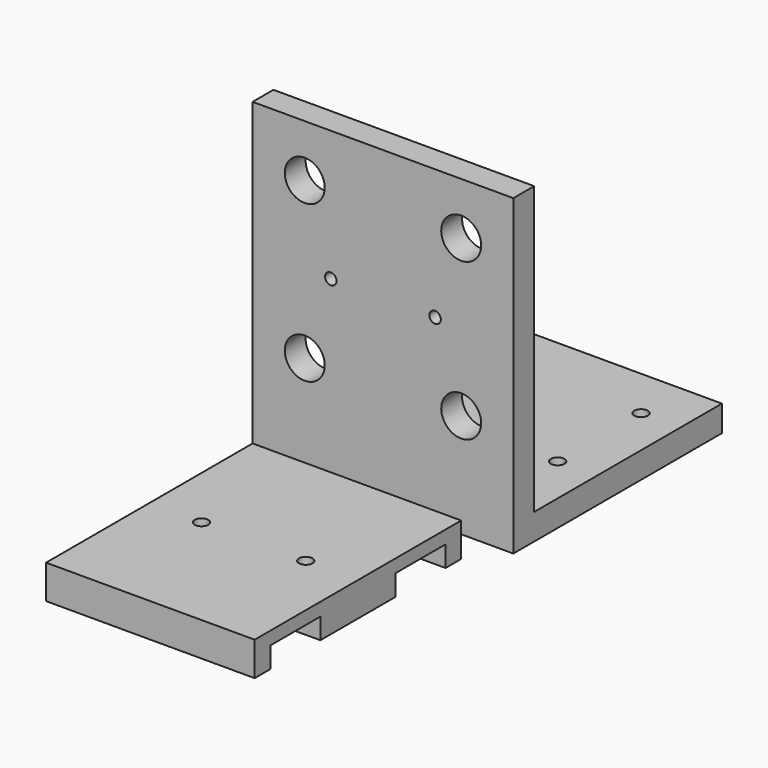
from build123d import *

# Parameters (mm, degrees)
F1_DEPTH  = 63.5
F3_D      = 19.446875
F5_DEPTH  = 50.8
F7_D      = 6.604
F9_D      = 5.588
F11_D     = 6.604
F12_W     = 101.6
F12_H     = 9.525
F13_DEPTH = 16.51


with BuildPart() as f1:
    # F0 (on Right) → F1 (new body, symmetric)
    with BuildSketch(Plane.YZ):
        Polygon((0, 152.4), (0, 0), (127, 0), (127, 12.7), (12.7, 12.7), (12.7, 152.4), align=None)
    extrude(amount=F1_DEPTH, both=True)

    # F3 (through all)
    with Locations(Plane.XZ):
        with Locations((-38.1, 127), (38.1, 127), (38.1, 50.8), (-38.1, 50.8)):
            Hole(F3_D / 2)

    # F9 (through all)
    with Locations(Plane.XZ):
        with Locations((-25.4, 88.9), (25.4, 88.9)):
            Hole(F9_D / 2)

    # F11 (through all)
    with Locations(Plane.XY.offset(12.7)):
        with Locations((44.45, 50.8), (-44.45, 50.8), (-44.45, 101.6), (44.45, 101.6)):
            Hole(F11_D / 2)


with BuildPart() as f5:
    # F4 (on Right) → F5 (new body, symmetric)
    with BuildSketch(Plane.YZ):
        Polygon((-101.6, 10.16), (-101.6, 0), (-55.88, 0), (-55.88, 10.16), (-25.4, 10.16), (-25.4, 16.51), (-132.08, 16.51), (-132.08, 10.16), align=None)
    extrude(amount=F5_DEPTH, both=True)

    # F7 (through all)
    with Locations(Plane.XY.offset(16.51)):
        with Locations((-25.4, -78.74), (25.4, -78.74)):
            Hole(F7_D / 2)

    # F12 (on face) → F13 (join)
    with BuildSketch(Plane.XY.offset(16.51)):
        with Locations((0, -20.6375)):
            Rectangle(F12_W, F12_H)
        with Locations((0, -136.8425)):
            Rectangle(F12_W, F12_H)
    extrude(amount=-F13_DEPTH)


solid = Compound([f1.part, f5.part])
